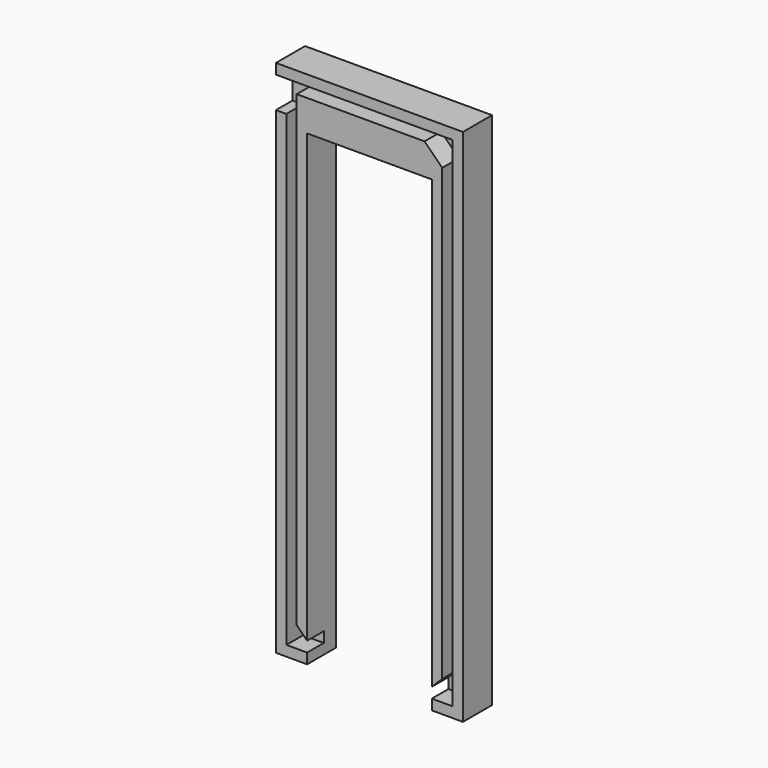
from build123d import *

# Parameters (mm, degrees)
F1_DEPTH = 1.5
F3_DEPTH = 2


with BuildPart() as f1:
    # F0 (on Front) → F1 (new body)
    with BuildSketch(Plane.XZ):
        Polygon((18, 0), (0, 0), (0, -50), (3, -50), (3, -5), (15, -5), (15, -50), (18, -50), align=None)
    extrude(amount=F1_DEPTH)

    # F2 (on face) → F3 (join)
    with BuildSketch(Plane.XZ.offset(1.5)):
        Polygon((0, 0), (0, -1), (17, -1), (17, -49), (15, -49), (15, -50), (18, -50), (18, 0), align=None)
        Polygon((15, -5), (15, -48), (16, -47), (16, -3.693556), (14.306444, -2), (2, -2), (2, -4.21096), (2, -47), (3, -48), (3, -5), align=None)
        Polygon((1, -4), (0, -4), (0, -50), (3, -50), (3, -49), (1, -49), align=None)
    extrude(amount=F3_DEPTH)


solid = f1.part
